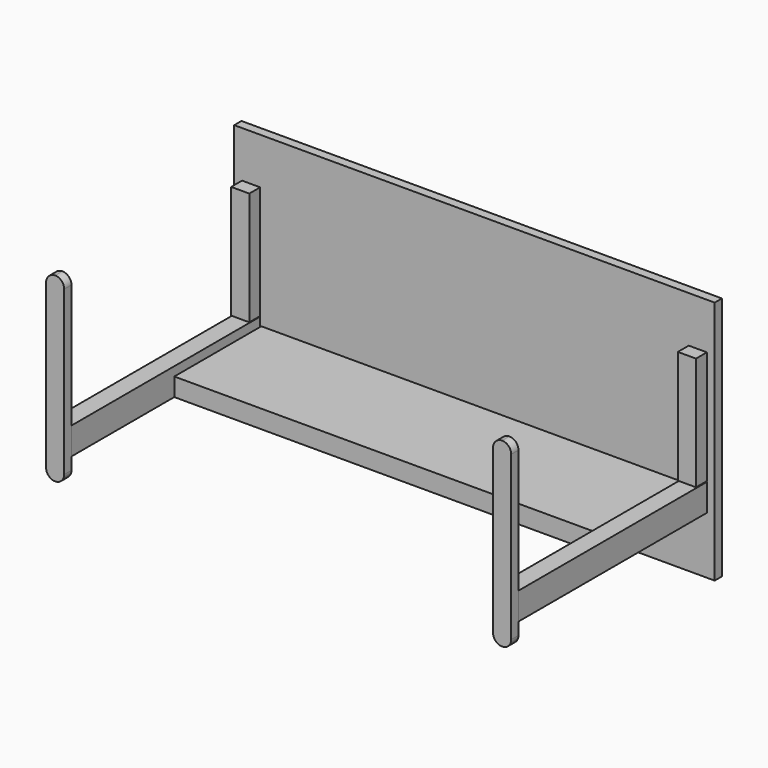
from build123d import *

# Parameters (mm, degrees)
F0_W     = 1346.2
F0_H     = 685.8
F1_DEPTH = 25.4
F2_W     = 50.8
F2_H     = 317.5
F3_DEPTH = 38.1
F4_W     = 50.8
F4_H     = 76.2
F5_DEPTH = 660.4
F7_DEPTH = 25.4
F8_W     = 1193.8
F8_H     = 50.8
F9_DEPTH = 304.8


with BuildPart() as f1:
    # F0 (on Front) → F1 (new body)
    with BuildSketch(Plane.XZ):
        with Locations((-279.338504, 78.177206)):
            Rectangle(F0_W, F0_H)
    extrude(amount=F1_DEPTH)

    # F2 (on face) → F3 (join)
    with BuildSketch(Plane.XZ.offset(25.4)):
        with Locations((-905.169547, 132.599801)):
            Rectangle(F2_W, F2_H)
        with Locations((346.49254, 132.599801)):
            Rectangle(F2_W, F2_H)
    extrude(amount=F3_DEPTH)

    # F4 (on face) → F5 (join)
    with BuildSketch(Plane.XZ.offset(25.4)):
        with Locations((-905.597014, -66.111187)):
            Rectangle(F4_W, F4_H)
        with Locations((346.920007, -66.111187)):
            Rectangle(F4_W, F4_H)
    extrude(amount=F5_DEPTH)

    # F6 (on face) → F7 (join)
    with BuildSketch(Plane.XZ.offset(685.8)):
        with BuildLine():
            Line((-880.196954, -138.340718), (-880.196954, 318.859282))
            ThreePointArc((-880.196954, 318.859282), (-887.636442, 336.819794), (-905.596954, 344.259282))
            ThreePointArc((-905.596954, 344.259282), (-923.557467, 336.819794), (-930.996954, 318.859282))
            Line((-930.996954, 318.859282), (-930.996954, -138.340718))
            ThreePointArc((-930.996954, -138.340718), (-923.557467, -156.30123), (-905.596954, -163.740718))
            ThreePointArc((-905.596954, -163.740718), (-887.636442, -156.30123), (-880.196954, -138.340718))
        make_face()
        with BuildLine():
            ThreePointArc((346.919947, 344.259282), (328.959435, 336.819794), (321.519947, 318.859282))
            Line((321.519947, 318.859282), (321.519947, -138.340718))
            ThreePointArc((321.519947, -138.340718), (328.959435, -156.30123), (346.919947, -163.740718))
            ThreePointArc((346.919947, -163.740718), (364.88046, -156.30123), (372.319947, -138.340718))
            Line((372.319947, -138.340718), (372.319947, 318.859282))
            ThreePointArc((372.319947, 318.859282), (364.88046, 336.819794), (346.919947, 344.259282))
        make_face()
    extrude(amount=F7_DEPTH)

    # F8 (on face) → F9 (join)
    with BuildSketch(Plane.XZ.offset(25.4)):
        with Locations((-279.633806, -75.797988)):
            Rectangle(F8_W, F8_H)
    extrude(amount=F9_DEPTH)


solid = f1.part
